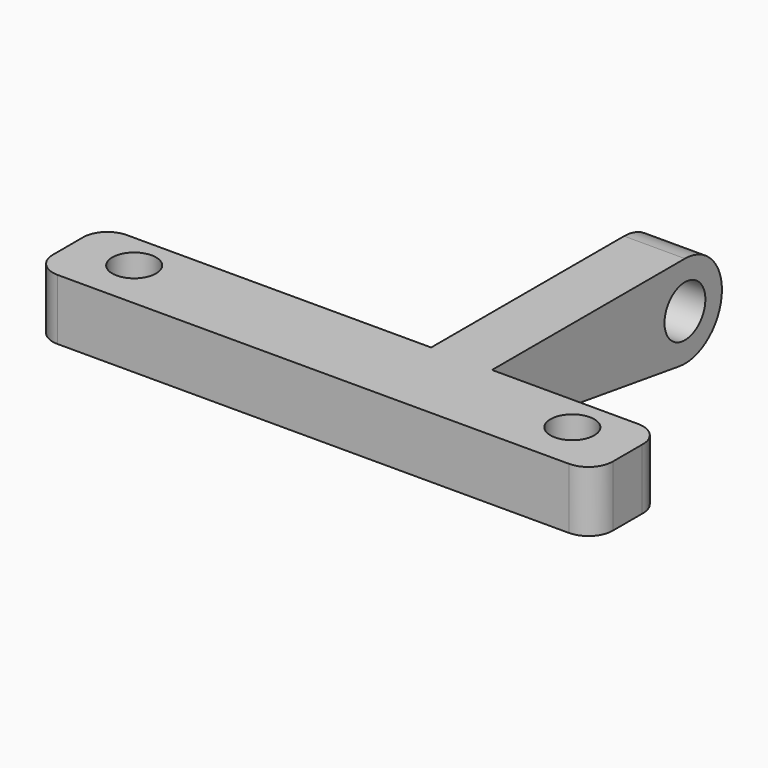
from build123d import *

# Parameters (mm, degrees)
SKETCH009_R      = 1.8
EXTRUDE008_DEPTH = 5
SKETCH008_R      = 2.1
EXTRUDE007_DEPTH = 5


with BuildPart() as extrude008:
    # Sketch009 → Extrude008 (new body)
    with BuildSketch(Plane.XY):
        with BuildLine():
            Line((-21.002502, -42), (21.002502, -42))
            ThreePointArc((23, -44.1), (22.451639, -42.621595), (21.002502, -42))
            Line((23, -47.1), (23, -44.1))
            ThreePointArc((21, -49.1), (22.414214, -48.514214), (23, -47.1))
            Line((21, -49.1), (-21, -49.1))
            ThreePointArc((-23, -47.1), (-22.414214, -48.514214), (-21, -49.1))
            Line((-23, -47.1), (-23, -44.1))
            ThreePointArc((-21.002502, -42), (-22.451639, -42.621595), (-23, -44.1))
        make_face()
        with Locations((-18, -45)):
            Circle(SKETCH009_R, mode=Mode.SUBTRACT)
        with Locations((18, -45)):
            Circle(SKETCH009_R, mode=Mode.SUBTRACT)
    extrude(amount=EXTRUDE008_DEPTH)


with BuildPart() as extrude008_1:
    # Extrude008 placement: moved
    add(extrude008.part.moved(Location((0, 0, 11.2))))


with BuildPart() as obj1:
    # Sketch008 → Extrude007 (new body)
    with BuildSketch(Plane.YZ):
        with BuildLine():
            Line((-49, 11.2), (-40, 11.2))
            Line((-40, 11.2), (-22.745353, 8.64111))
            ThreePointArc((-22.745353, 8.64111), (-18.398196, 12.120519), (-22.187904, 16.2))
            Line((-22.187904, 16.2), (-49, 16.2))
            Line((-49, 16.2), (-49, 11.2))
        make_face()
        with Locations((-22.187904, 12.4)):
            Circle(SKETCH008_R, mode=Mode.SUBTRACT)
    extrude(amount=EXTRUDE007_DEPTH)


with BuildPart() as obj1_1:
    # Extrude007 placement: moved
    add(obj1.part.moved(Location((4, 0, 0))))

    # Fusion009: union Extrude008
    add(extrude008_1.part)


solid = obj1_1.part
